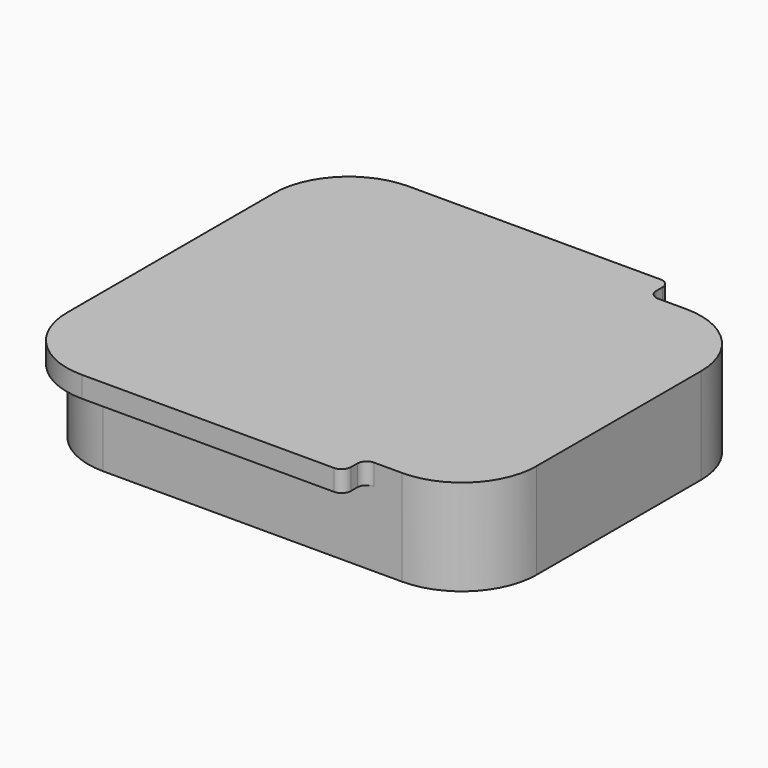
from build123d import *

# Parameters (mm, degrees)
F1_DEPTH = 10.25
F3_DEPTH = 2.25
F4_R     = 1
F6_DEPTH = 8
F7_DEPTH = 2.5


with BuildPart() as f1:
    # F0 (on Top) → F1 (new body)
    with BuildSketch(Plane.XY):
        with BuildLine():
            Line((16, 19), (-16, 19))
            ThreePointArc((-16, 19), (-21.6568542495, 16.6568542495), (-24, 11))
            Line((-24, 11), (-24, -11))
            ThreePointArc((-24, -11), (-21.6568542495, -16.6568542495), (-16, -19))
            Line((-16, -19), (16, -19))
            ThreePointArc((16, -19), (21.6568542495, -16.6568542495), (24, -11))
            Line((24, -11), (24, 11))
            ThreePointArc((24, 11), (21.6568542495, 16.6568542495), (16, 19))
        make_face()
    extrude(amount=F1_DEPTH)

    # F2 (on face) → F3 (join)
    with BuildSketch(Plane.XY.offset(10.25)):
        with BuildLine():
            Line((12, 21.85), (-16, 21.85))
            ThreePointArc((-16, 21.85), (-21.6568542495, 19.5068542495), (-24, 13.85))
            Line((-24, 13.85), (-24, 11))
            ThreePointArc((-24, 11), (-21.6568542495, 16.6568542495), (-16, 19))
            Line((-16, 19), (12, 19))
            Line((12, 19), (12, 21.85))
        make_face()
        with BuildLine():
            Line((12, -21.85), (12, -19))
            Line((12, -19), (-16, -19))
            ThreePointArc((-16, -19), (-21.6568542495, -16.6568542495), (-24, -11))
            Line((-24, -11), (-24, -13.85))
            ThreePointArc((-24, -13.85), (-21.6568542495, -19.5068542495), (-16, -21.85))
            Line((-16, -21.85), (12, -21.85))
        make_face()
    extrude(amount=-F3_DEPTH)

    # F4
    f4_edges = [f1.edges().sort_by_distance(p)[0] for p in [
        (12, -19, 9.125),
        (12, -21.85, 9.125),
        (12, 21.85, 9.125),
        (12, 19, 9.125),
    ]]
    fillet(f4_edges, radius=F4_R)

    # F5 (on face) → F6 (cut)
    with BuildSketch(Plane(origin=(0, 0, 0), x_dir=(1, 0, 0), z_dir=(0, 0, -1))):
        with BuildLine():
            ThreePointArc((-16, 17.1), (-20.3133513652, 15.3133513652), (-22.1, 11))
            Line((-22.1, 11), (-22.1, -11))
            ThreePointArc((-22.1, -11), (-20.3133513652, -15.3133513652), (-16, -17.1))
            Line((-16, -17.1), (16, -17.1))
            ThreePointArc((16, -17.1), (20.3133513652, -15.3133513652), (22.1, -11))
            Line((22.1, -11), (22.1, 11))
            ThreePointArc((22.1, 11), (20.3133513652, 15.3133513652), (16, 17.1))
            Line((16, 17.1), (-16, 17.1))
        make_face()
    extrude(amount=-F6_DEPTH, mode=Mode.SUBTRACT)

    # F5 (on face) → F7 (cut)
    with BuildSketch(Plane(origin=(0, 0, 0), x_dir=(1, 0, 0), z_dir=(0, 0, -1))):
        with BuildLine():
            Line((16, 18.1), (-16, 18.1))
            ThreePointArc((-16, 18.1), (-21.0204581464, 16.0204581464), (-23.1, 11))
            Line((-23.1, 11), (-23.1, -11))
            ThreePointArc((-23.1, -11), (-21.0204581464, -16.0204581464), (-16, -18.1))
            Line((-16, -18.1), (16, -18.1))
            ThreePointArc((16, -18.1), (21.0204581464, -16.0204581464), (23.1, -11))
            Line((23.1, -11), (23.1, 11))
            ThreePointArc((23.1, 11), (21.0204581464, 16.0204581464), (16, 18.1))
        make_face()
        with BuildLine():
            Line((-22.1, -11), (-22.1, 11))
            ThreePointArc((-22.1, 11), (-20.3133513652, 15.3133513652), (-16, 17.1))
            Line((-16, 17.1), (16, 17.1))
            ThreePointArc((16, 17.1), (20.3133513652, 15.3133513652), (22.1, 11))
            Line((22.1, 11), (22.1, -11))
            ThreePointArc((22.1, -11), (20.3133513652, -15.3133513652), (16, -17.1))
            Line((16, -17.1), (-16, -17.1))
            ThreePointArc((-16, -17.1), (-20.3133513652, -15.3133513652), (-22.1, -11))
        make_face(mode=Mode.SUBTRACT)
    extrude(amount=-F7_DEPTH, mode=Mode.SUBTRACT)


solid = f1.part
